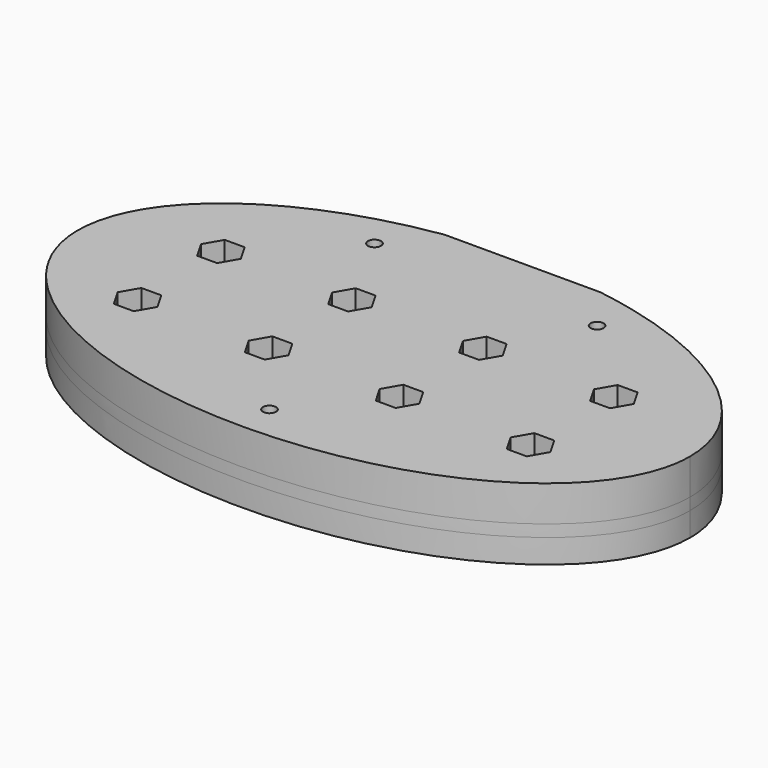
from build123d import *

# Parameters (mm, degrees)
BOX_BOTTOM_HALF_0_W     = 78.999568
BOX_BOTTOM_HALF_0_H     = 46.255487
BOX_BOTTOM_HALF_0_DEPTH = 5.5
PAD_DEPTH               = 6
POCKET_DEPTH            = 3
PAD001_DEPTH            = 3
SKETCH003_W             = 66
SKETCH003_H             = 2.77
POCKET001_DEPTH         = 3
SKETCH004_W             = 19.6
SKETCH004_H             = 1
POCKET002_DEPTH         = 9.001
SKETCH005_R             = 0.82
POCKET003_DEPTH         = 9.001
POCKET004_DEPTH         = 9.001


with BuildPart() as box_bottom_half_0_body:
    # box_bottom_half_0 → box_bottom_half_0 (new body)
    with BuildSketch(Plane(origin=(-39.499568, -23.496619, -4), x_dir=(1, 0, 0), z_dir=(0, 0, 1))):
        with Locations((39.499784, 23.127743)):
            Rectangle(BOX_BOTTOM_HALF_0_W, BOX_BOTTOM_HALF_0_H)
    extrude(amount=BOX_BOTTOM_HALF_0_DEPTH)


with BuildPart() as body:
    # Sketch → Pad (new body)
    with BuildSketch(Plane.XY):
        with BuildLine():
            add(Edge.make_bspline(
                [(38.5, 0), (38.5, 38.971143), (-19.25, 19.485572), (-77, 0), (-19.25, -19.485572), (38.5, -38.971143), (38.5, 0)],
                knots=[0, 0, 0, 2.094395, 2.094395, 4.18879, 4.18879, 6.283185, 6.283185, 6.283185], degree=2, weights=[1, 0.5, 1, 0.5, 1, 0.5, 1]))
        make_face()
    extrude(amount=PAD_DEPTH)

    # Sketch001 (on Face2 of Pad) → Pocket (cut)
    with BuildSketch(Plane(origin=(0, 0, 0), x_dir=(1, 0, 0), z_dir=(0, 0, -1))):
        Polygon((9.55, -3.696801), (9.55, -21.796801), (-9.55, -21.796801), (-9.55, -3.696801), (-33, -3.696801), (-33, 6.303199), (33, 6.303199), (33, -3.696801), align=None)
    extrude(amount=-POCKET_DEPTH, mode=Mode.SUBTRACT)

    # Sketch002 (on Face2 of Pocket) → Pad001 (join)
    with BuildSketch(Plane(origin=(0, 0, 0), x_dir=(1, 0, 0), z_dir=(0, 0, -1))):
        with BuildLine():
            add(Edge.make_bspline(
                [(38.5, 0), (38.5, 38.971143), (-19.25, 19.485572), (-77, 0), (-19.25, -19.485572), (38.5, -38.971143), (38.5, 0)],
                knots=[0, 0, 0, 2.094395, 2.094395, 4.18879, 4.18879, 6.283185, 6.283185, 6.283185], degree=2, weights=[1, 0.5, 1, 0.5, 1, 0.5, 1]))
        make_face()
    extrude(amount=PAD001_DEPTH)

    # Sketch003 (on Face4 of Pad001) → Pocket001 (cut)
    with BuildSketch(Plane(origin=(0, 0, -3), x_dir=(1, 0, 0), z_dir=(0, 0, -1))):
        with Locations((0, 1.303199)):
            Rectangle(SKETCH003_W, SKETCH003_H)
    extrude(amount=-POCKET001_DEPTH, mode=Mode.SUBTRACT)

    # Sketch004 (on Face4 of Pocket001) → Pocket002 (cut, through all)
    with BuildSketch(Plane(origin=(0, 0, -3), x_dir=(1, 0, 0), z_dir=(0, 0, -1))):
        with Locations((0, -22.258868)):
            Rectangle(SKETCH004_W, SKETCH004_H)
    extrude(amount=-POCKET002_DEPTH, mode=Mode.SUBTRACT)

    # Sketch005 (on Face4 of Pocket002) → Pocket003 (cut, through all)
    with BuildSketch(Plane.XY.offset(6)):
        with Locations((-14, 16)):
            Circle(SKETCH005_R)
        with Locations((14, 16)):
            Circle(SKETCH005_R)
        with Locations((0, -18)):
            Circle(SKETCH005_R)
    extrude(amount=-POCKET003_DEPTH, mode=Mode.SUBTRACT)

    # Sketch006 (on Face7 of Pocket003) → Pocket004 (cut, through all)
    with BuildSketch(Plane(origin=(0, 0, -3), x_dir=(1, 0, 0), z_dir=(0, 0, -1))):
        Polygon((-22.21, -5.246865), (-23.46, -3.081801), (-25.96, -3.081801), (-27.21, -5.246865), (-25.96, -7.411928), (-23.46, -7.411928), align=None)
        Polygon((-23.46, 5.688199), (-22.21, 7.853262), (-23.46, 10.018326), (-25.96, 10.018326), (-27.21, 7.853262), (-25.96, 5.688199), align=None)
        Polygon((-5.735, -5.246865), (-6.985, -3.081801), (-9.485, -3.081801), (-10.735, -5.246865), (-9.485, -7.411928), (-6.985, -7.411928), align=None)
        Polygon((-9.485, 5.688199), (-6.985, 5.688199), (-5.735, 7.853262), (-6.985, 10.018326), (-9.485, 10.018326), (-10.735, 7.853262), align=None)
        Polygon((10.735, -5.246865), (9.485, -3.081801), (6.985, -3.081801), (5.735, -5.246865), (6.985, -7.411928), (9.485, -7.411928), align=None)
        Polygon((9.485, 5.688199), (10.735, 7.853262), (9.485, 10.018326), (6.985, 10.018326), (5.735, 7.853262), (6.985, 5.688199), align=None)
        Polygon((27.21, -5.246865), (25.96, -3.081801), (23.46, -3.081801), (22.21, -5.246865), (23.46, -7.411928), (25.96, -7.411928), align=None)
        Polygon((25.96, 5.688199), (27.21, 7.853262), (25.96, 10.018326), (23.46, 10.018326), (22.21, 7.853262), (23.46, 5.688199), align=None)
    extrude(amount=-POCKET004_DEPTH, mode=Mode.SUBTRACT)


with BuildPart() as bottom_half_0_body:
    # bottom_half_0 base: copy of Body
    add(body.part)

    # bottom_half_0: intersect box_bottom_half_0 body
    add(box_bottom_half_0_body.part, mode=Mode.INTERSECT)


with BuildPart() as top_half_0_body:
    # top_half_0 base: copy of Body
    add(body.part)

    # top_half_0: cut box_bottom_half_0 body
    add(box_bottom_half_0_body.part, mode=Mode.SUBTRACT)


solid = Compound([bottom_half_0_body.part, top_half_0_body.part])
